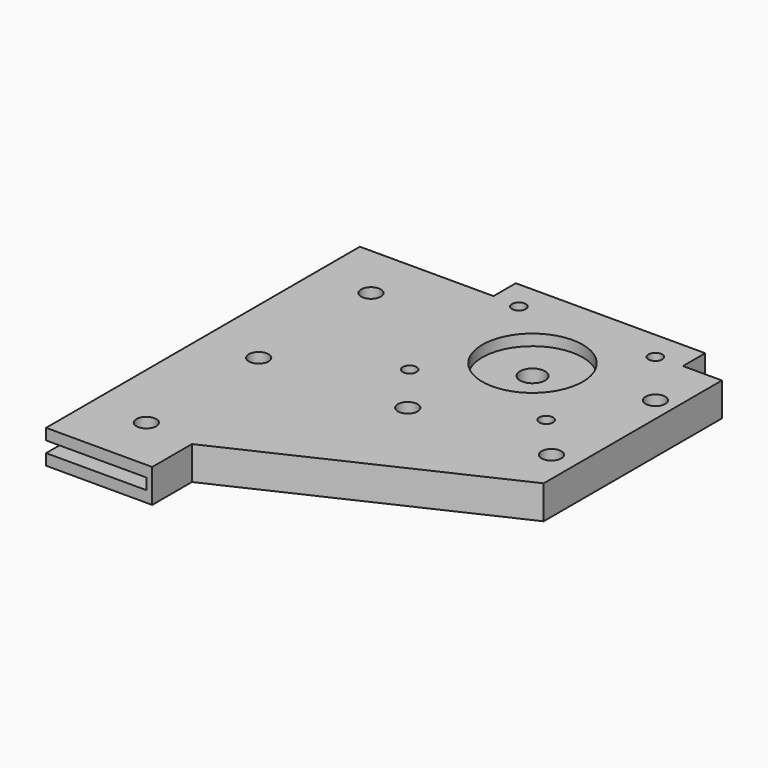
from build123d import *

# Parameters (mm, degrees)
F0_R     = 2.2479
F0_R_2   = 3.175
F0_R_3   = 11.43
F0_R_4   = 2.8575
F1_DEPTH = 2.54
F2_R     = 2.2479
F2_R_2   = 3.175
F2_R_3   = 2.8575
F2_R_4   = 1.574685516
F3_DEPTH = 2.54
F4_R     = 2.2479
F4_R_2   = 1.574685516
F4_R_3   = 11.4450762602
F5_DEPTH = 2.54
F6_DEPTH = 5.08
F7_W     = 22.86
F7_H     = 2.54
F8_DEPTH = 89.409


with BuildPart() as f1:
    # F0 (on Top) → F1 (new body)
    with BuildSketch(Plane.XY):
        Polygon((0, 89.408), (0, 0), (24.1954457015, 0), (24.1954457015, 11.3160238358), (82.55, 38.608), (82.55, 89.408), (73.66, 89.408), (73.66, 95.758), (30.48, 95.758), (30.48, 89.408), align=None)
        with Locations((12.7, 12.7)):
            Circle(F0_R, mode=Mode.SUBTRACT)
        with Locations((12.7, 44.704)):
            Circle(F0_R, mode=Mode.SUBTRACT)
        with Locations((45.4550236464, 46.2430119514)):
            Circle(F0_R, mode=Mode.SUBTRACT)
        with Locations((36.5125, 57.9755)):
            Circle(F0_R_2, mode=Mode.SUBTRACT)
        with Locations((12.7, 76.708)):
            Circle(F0_R, mode=Mode.SUBTRACT)
        with Locations((36.5125, 89.0905)):
            Circle(F0_R_2, mode=Mode.SUBTRACT)
        with Locations((67.6275, 57.9755)):
            Circle(F0_R_2, mode=Mode.SUBTRACT)
        with Locations((76.7535641789, 48.0743087828)):
            Circle(F0_R, mode=Mode.SUBTRACT)
        with Locations((52.07, 73.533)):
            Circle(F0_R_3, mode=Mode.SUBTRACT)
        with Locations((78.0854150653, 76.0432183743)):
            Circle(F0_R, mode=Mode.SUBTRACT)
        with Locations((67.6275, 89.0905)):
            Circle(F0_R_2, mode=Mode.SUBTRACT)
        with Locations((52.07, 73.533)):
            Circle(F0_R_3)
        with Locations((52.07, 73.533)):
            Circle(F0_R_4, mode=Mode.SUBTRACT)
    extrude(amount=F1_DEPTH)

    # F2 (on face) → F3 (join)
    with BuildSketch(Plane.XY.offset(2.54)):
        Polygon((30.48, 89.408), (25.4, 89.408), (25.4, 11.8793846154), (82.55, 38.608), (82.55, 89.408), (73.66, 89.408), (73.66, 95.758), (30.48, 95.758), align=None)
        with Locations((45.4550236464, 46.2430119514)):
            Circle(F2_R, mode=Mode.SUBTRACT)
        with Locations((36.5125, 57.9755)):
            Circle(F2_R_2, mode=Mode.SUBTRACT)
        with Locations((36.5125, 89.0905)):
            Circle(F2_R_2, mode=Mode.SUBTRACT)
        with Locations((67.6275, 57.9755)):
            Circle(F2_R_2, mode=Mode.SUBTRACT)
        with Locations((76.7535641789, 48.0743087828)):
            Circle(F2_R, mode=Mode.SUBTRACT)
        with Locations((52.07, 73.533)):
            Circle(F2_R_3, mode=Mode.SUBTRACT)
        with Locations((78.0854150653, 76.0432183743)):
            Circle(F2_R, mode=Mode.SUBTRACT)
        with Locations((67.6275, 89.0905)):
            Circle(F2_R_2, mode=Mode.SUBTRACT)
        with Locations((36.5125, 57.9755)):
            Circle(F2_R_2)
        with Locations((36.5125, 57.9755)):
            Circle(F2_R_4, mode=Mode.SUBTRACT)
        with Locations((67.6275, 57.9755)):
            Circle(F2_R_2)
        with Locations((67.6275, 57.9755)):
            Circle(F2_R_4, mode=Mode.SUBTRACT)
        with Locations((67.6275, 89.0905)):
            Circle(F2_R_2)
        with Locations((67.6275, 89.0905)):
            Circle(F2_R_4, mode=Mode.SUBTRACT)
        with Locations((36.5125, 89.0905)):
            Circle(F2_R_2)
        with Locations((36.5125, 89.0905)):
            Circle(F2_R_4, mode=Mode.SUBTRACT)
    extrude(amount=F3_DEPTH)

    # F4 (on face) → F5 (join)
    with BuildSketch(Plane.XY.offset(5.08)):
        Polygon((30.48, 89.408), (25.4, 89.408), (25.4, 11.8793846154), (82.55, 38.608), (82.55, 89.408), (73.66, 89.408), (73.66, 95.758), (30.48, 95.758), align=None)
        with Locations((45.4550236464, 46.2430119514)):
            Circle(F4_R, mode=Mode.SUBTRACT)
        with Locations((36.5125, 57.9755)):
            Circle(F4_R_2, mode=Mode.SUBTRACT)
        with Locations((36.5125, 89.0905)):
            Circle(F4_R_2, mode=Mode.SUBTRACT)
        with Locations((67.6275, 57.9755)):
            Circle(F4_R_2, mode=Mode.SUBTRACT)
        with Locations((76.7535641789, 48.0743087828)):
            Circle(F4_R, mode=Mode.SUBTRACT)
        with Locations((52.07, 73.533)):
            Circle(F4_R_3, mode=Mode.SUBTRACT)
        with Locations((78.0854150653, 76.0432183743)):
            Circle(F4_R, mode=Mode.SUBTRACT)
        with Locations((67.6275, 89.0905)):
            Circle(F4_R_2, mode=Mode.SUBTRACT)
    extrude(amount=F5_DEPTH)

    # F6 (add): a face of the model
    f6_faces = [f1.faces().sort_by_distance(p)[0] for p in [
        (12.7, 88.4785404547, 2.54),
    ]]
    extrude(f6_faces, amount=F6_DEPTH)

    # F7 (on face) → F8 (cut, through all)
    with BuildSketch(Plane(origin=(0, 89.408, 0), x_dir=(-1, 0, 0), z_dir=(0, 1, 0))):
        with Locations((-11.43, 3.81)):
            Rectangle(F7_W, F7_H)
    extrude(amount=-F8_DEPTH, mode=Mode.SUBTRACT)


solid = f1.part
